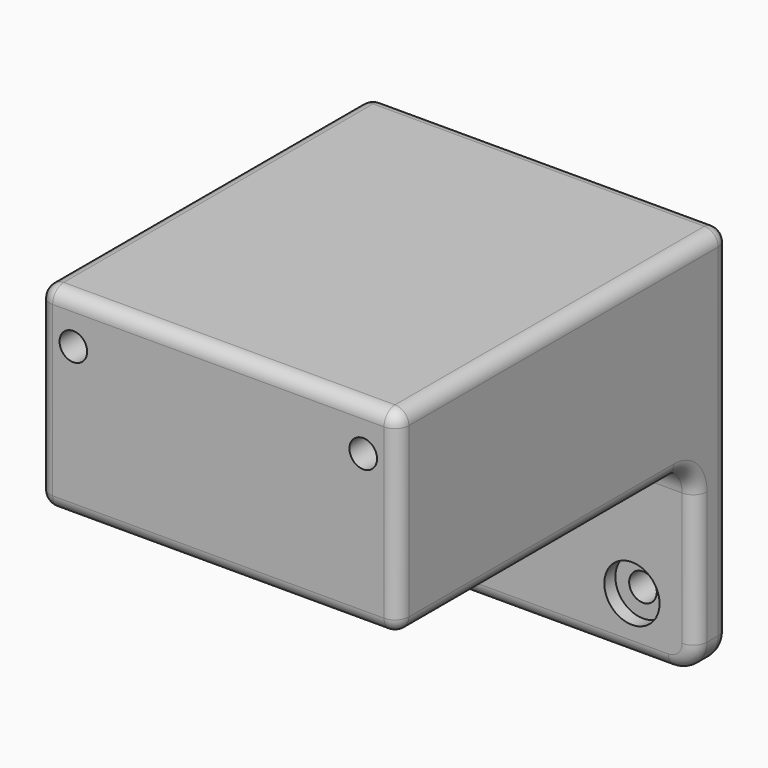
from build123d import *

# Parameters (mm, degrees)
F0_W           = 82.55
F0_H           = 35.56
F1_DEPTH       = 95.25
F3_D           = 6.35
F3_DEPTH       = 19.05
F3_TIP         = 1.9077324654
F5_D           = 6.35
F5_DEPTH       = 19.05
F5_TIP         = 1.9077324654
F7_DEPTH       = 82.55
F9_D           = 6.35
F9_CBORE_D     = 12.7
F9_CBORE_DEPTH = 3.175
F10_R          = 6.35
F11_R          = 3.175


with BuildPart() as f1:
    # F0 (on Front) → F1 (new body)
    with BuildSketch(Plane.XZ):
        with Locations((41.275, 17.78)):
            Rectangle(F0_W, F0_H)
    extrude(amount=F1_DEPTH)

    # F3
    with Locations(Plane.XZ.offset(95.25)):
        with Locations((7.9248, 25.4), (74.5998, 25.4)):
            Hole(F3_D / 2, depth=F3_DEPTH)
            with Locations((0, 0, -(F3_DEPTH + F3_TIP / 2))):  # 118° drill point
                Cone(0, F3_D / 2, F3_TIP, mode=Mode.SUBTRACT)

    # F5
    with Locations(Plane(origin=(0, 0, 0), x_dir=(-1, 0, 0), z_dir=(0, 1, 0))):
        with Locations((-12.7, 17.78), (-69.85, 17.78)):
            Hole(F5_D / 2, depth=F5_DEPTH)
            with Locations((0, 0, -(F5_DEPTH + F5_TIP / 2))):  # 118° drill point
                Cone(0, F5_D / 2, F5_TIP, mode=Mode.SUBTRACT)

    # F6 (on Right) → F7 (join)
    with BuildSketch(Plane.YZ):
        with BuildLine():
            Line((0, -9.525), (0, 0))
            Line((0, 0), (-9.525, 0))
            Line((-9.525, 0), (-95.25, 0))
            Line((-95.25, 0), (-95.25, -9.525))
            Line((-95.25, -9.525), (-15.875, -9.525))
            ThreePointArc((-15.875, -9.525), (-11.3848719395, -11.3848719395), (-9.525, -15.875))
            Line((-9.525, -15.875), (-9.525, -52.6542))
            Line((-9.525, -52.6542), (0, -52.6542))
            Line((0, -52.6542), (0, -9.525))
        make_face()
    extrude(amount=F7_DEPTH)

    # F9 (through all)
    with Locations(Plane.XZ.offset(9.525)):
        with Locations((14.732, -39.9542), (67.818, -39.9542)):
            CounterBoreHole(F9_D / 2, F9_CBORE_D / 2, F9_CBORE_DEPTH)

    # F10
    f10_edges = [f1.edges().sort_by_distance(p)[0] for p in [
        (0, -4.7625, -52.6542),
        (82.55, -4.7625, -52.6542),
    ]]
    fillet(f10_edges, radius=F10_R)

    # F11
    f11_edges = [f1.edges().sort_by_distance(p)[0] for p in [
        (82.55, -95.25, 13.0175),
        (41.275, -95.25, -9.525),
        (0, -95.25, 13.0175),
        (0, -55.5625, -9.525),
        (82.55, -47.625, 35.56),
        (41.275, -95.25, 35.56),
        (0, -47.625, 35.56),
        (41.275, 0, 35.56),
        (0, 0, -5.3721),
    ]]
    fillet(f11_edges, radius=F11_R)


solid = f1.part
